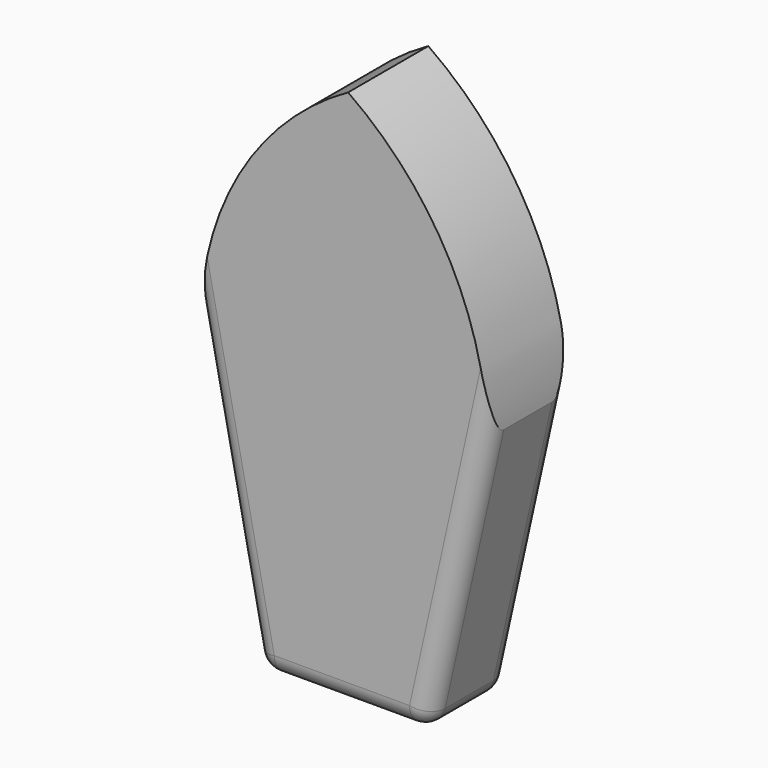
from build123d import *

# Parameters (mm, degrees)
F1_DEPTH = 25.4
F3_DEPTH = 19.05
F4_DEPTH = 19.05
F5_R     = 5.08


with BuildPart() as f1:
    # F0 (on Front) → F1 (new body)
    with BuildSketch(Plane.XZ):
        with BuildLine():
            ThreePointArc((35.395226, 0), (25.519415, 37.09865), (0, 65.779671))
            ThreePointArc((0, 65.779671), (-27.871905, 38.118795), (-37.301891, 0))
            Line((-37.301891, 0), (-22.862449, -70.993923))
            Line((-22.862449, -70.993923), (19.653682, -70.993923))
            Line((19.653682, -70.993923), (35.395226, 0))
        make_face()
    extrude(amount=F1_DEPTH)

    # F2 (on face) → F3 (cut)
    with BuildSketch(Plane(origin=(0, 0, 0), x_dir=(-1, 0, 0), z_dir=(0, 1, 0))):
        with BuildLine():
            ThreePointArc((26.61556, 0), (22.594878, 30.780864), (0, 52.066986))
            ThreePointArc((0, 52.066986), (-16.922181, 28.453793), (-22.78091, 0))
            Line((-22.78091, 0), (-9.381168, -60.432459))
            Line((-9.381168, -60.432459), (13.559343, -60.432459))
            Line((13.559343, -60.432459), (26.61556, 0))
        make_face()
    extrude(amount=F3_DEPTH, mode=Mode.SUBTRACT)

    # F2 (on face) → F4 (cut)
    with BuildSketch(Plane(origin=(0, 0, 0), x_dir=(-1, 0, 0), z_dir=(0, 1, 0))):
        with BuildLine():
            ThreePointArc((26.61556, 0), (22.594878, 30.780864), (0, 52.066986))
            ThreePointArc((0, 52.066986), (-16.922181, 28.453793), (-22.78091, 0))
            Line((-22.78091, 0), (-9.381168, -60.432459))
            Line((-9.381168, -60.432459), (13.559343, -60.432459))
            Line((13.559343, -60.432459), (26.61556, 0))
        make_face()
    extrude(amount=-F4_DEPTH, mode=Mode.SUBTRACT)

    # F5
    f5_edges = [f1.edges().sort_by_distance(p)[0] for p in [
        (27.524454, 0, -35.496961),
        (27.524454, -25.4, -35.496961),
        (19.653682, -12.7, -70.993923),
        (-1.604384, 0, -70.993923),
        (-1.604384, -25.4, -70.993923),
        (-22.862449, -12.7, -70.993923),
        (-30.08217, 0, -35.496961),
        (-30.08217, -25.4, -35.496961),
    ]]
    fillet(f5_edges, radius=F5_R)


solid = f1.part
